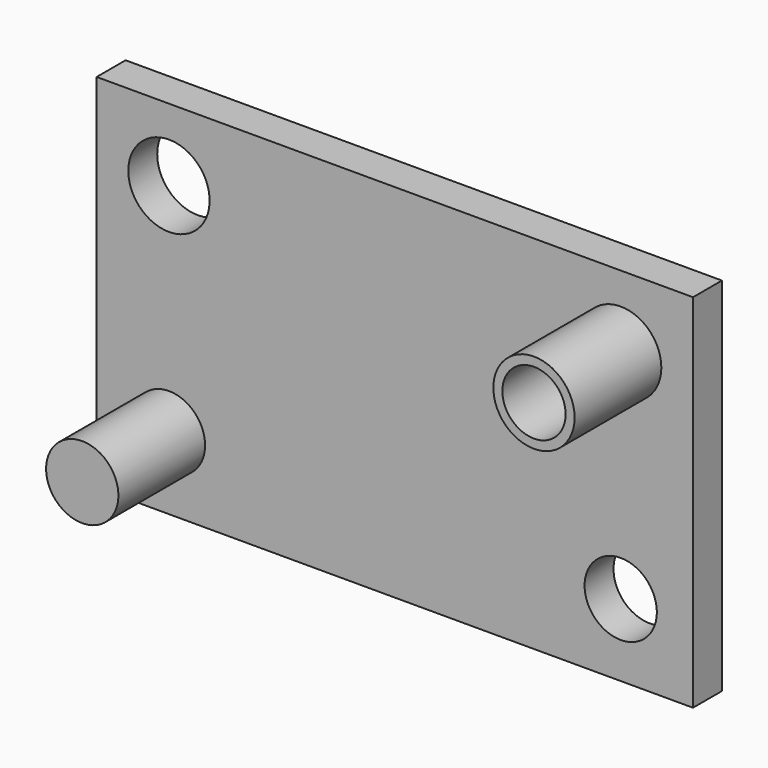
from build123d import *

# Parameters (mm, degrees)
F0_W      = 52.3875
F0_H      = 31.75
F1_DEPTH  = 3.175
F3_DEPTH  = 3.176
F4_R      = 3.5687
F5_DEPTH  = 9.525
F6_R      = 2.778125
F7_DEPTH  = 12.701
F9_DEPTH  = 9.525
F10_R     = 3.175
F11_DEPTH = 3.176


with BuildPart() as f1:
    # F0 (on Front) → F1 (new body)
    with BuildSketch(Plane.XZ):
        with Locations((1.981661, -8.707554)):
            Rectangle(F0_W, F0_H)
    extrude(amount=F1_DEPTH)

    # F2 (on face) → F3 (cut, through all)
    with BuildSketch(Plane.XZ.offset(3.175)):
        with BuildLine():
            ThreePointArc((-14.290214, 0.817446), (-17.862089, 4.389321), (-21.433964, 0.817446))
            ThreePointArc((-21.433964, 0.817446), (-17.862089, -2.754429), (-14.290214, 0.817446))
        make_face()
    extrude(amount=-F3_DEPTH, mode=Mode.SUBTRACT)

    # F4 (on face) → F5 (join)
    with BuildSketch(Plane.XZ.offset(3.175)):
        with Locations((21.825411, 0.817446)):
            Circle(F4_R)
    extrude(amount=F5_DEPTH)

    # F6 (on face) → F7 (cut, through all)
    with BuildSketch(Plane.XZ.offset(12.7)):
        with Locations((21.825411, 0.817446)):
            Circle(F6_R)
    extrude(amount=-F7_DEPTH, mode=Mode.SUBTRACT)

    # F8 (on face) → F9 (join)
    with BuildSketch(Plane.XZ.offset(3.175)):
        with BuildLine():
            ThreePointArc((-14.687089, -18.232554), (-17.862089, -15.057554), (-21.037089, -18.232554))
            ThreePointArc((-21.037089, -18.232554), (-17.862089, -21.407554), (-14.687089, -18.232554))
        make_face()
    extrude(amount=F9_DEPTH)

    # F10 (on face) → F11 (cut, through all)
    with BuildSketch(Plane.XZ.offset(3.175)):
        with Locations((21.825411, -18.232554)):
            Circle(F10_R)
    extrude(amount=-F11_DEPTH, mode=Mode.SUBTRACT)


solid = f1.part
